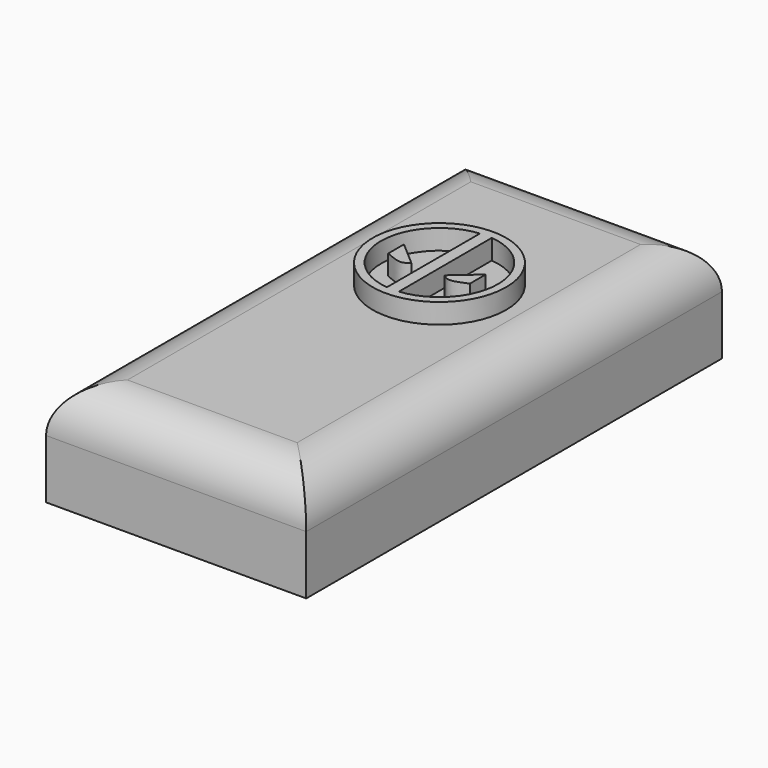
from build123d import *

# Parameters (mm, degrees)
F0_W     = 31.75
F0_H     = 63.4180661291
F1_DEPTH = 12.7
F2_R     = 5.5188922036
F3_T     = -1.27
F4_R     = 8.1477804886
F5_DEPTH = 2.4384


with BuildPart() as f1:
    # F0 (on Top) → F1 (new body)
    with BuildSketch(Plane.XY):
        with Locations((-0.6452417001, -7.6507264748)):
            Rectangle(F0_W, F0_H)
    extrude(amount=F1_DEPTH)

    # F2
    f2_edges = [f1.edges().sort_by_distance(p)[0] for p in [
        (-16.520242, -7.650726, 12.7),
        (-0.645242, -39.35976, 12.7),
        (15.229758, -7.650726, 12.7),
        (-0.645242, 24.058307, 12.7),
    ]]
    fillet(f2_edges, radius=F2_R)

    # F3
    f3_openings = [f1.faces().sort_by_distance(p)[0] for p in [
        (-0.645242, -7.650726, 0),
    ]]
    offset(amount=F3_T, openings=f3_openings)

    # F4 (on face) → F5 (join)
    with BuildSketch(Plane.XY.offset(12.7)):
        Circle(F4_R)
        with BuildLine():
            ThreePointArc((-0.7278024156, -7.0990652471), (-7.1362752006, 0), (-0.7278024156, 7.0990652471))
            Line((-0.7278024156, 7.0990652471), (-0.7278024156, -7.0990652471))
        make_face(mode=Mode.SUBTRACT)
        with BuildLine():
            Line((0.7278024156, -7.0990652471), (0.7113547333, 7.1007322285))
            ThreePointArc((0.7113547333, 7.1007322285), (7.1362704133, 0.0082659706), (0.7278024156, -7.0990652471))
        make_face(mode=Mode.SUBTRACT)
        with BuildLine():
            add(Edge.make_bspline(
                [(-4.9823397783, -1.5874156443), (-4.6270242199, -1.7415742797), (-3.9270228794, -2.0452796731), (-2.765918201, -2.34592671), (-2.2627830963, -1.941959242), (-2.0254463889, -1.7514014617)],
                knots=[0, 0, 0, 0, 0.3525731836, 0.6945986327, 1, 1, 1, 1], degree=3))
            Line((-2.0254463889, -1.7514014617), (-4.9851336516, 0.8246224024))
            Line((-4.9851336516, 0.8246224024), (-4.9823397783, -1.5874156443))
        make_face()
        with BuildLine():
            Line((4.9851336516, 0.8246224024), (2.0254463889, -1.7514014617))
            add(Edge.make_bspline(
                [(4.9823397783, -1.5874156443), (4.6270242199, -1.7415742797), (3.9270228794, -2.0452796731), (2.765918201, -2.34592671), (2.2627830963, -1.941959242), (2.0254463889, -1.7514014617)],
                knots=[0, 0, 0, 0, 0.3525731836, 0.6945986327, 1, 1, 1, 1], degree=3))
            Line((4.9823397783, -1.5874156443), (4.9851336516, 0.8246224024))
        make_face()
    extrude(amount=F5_DEPTH)


solid = f1.part
